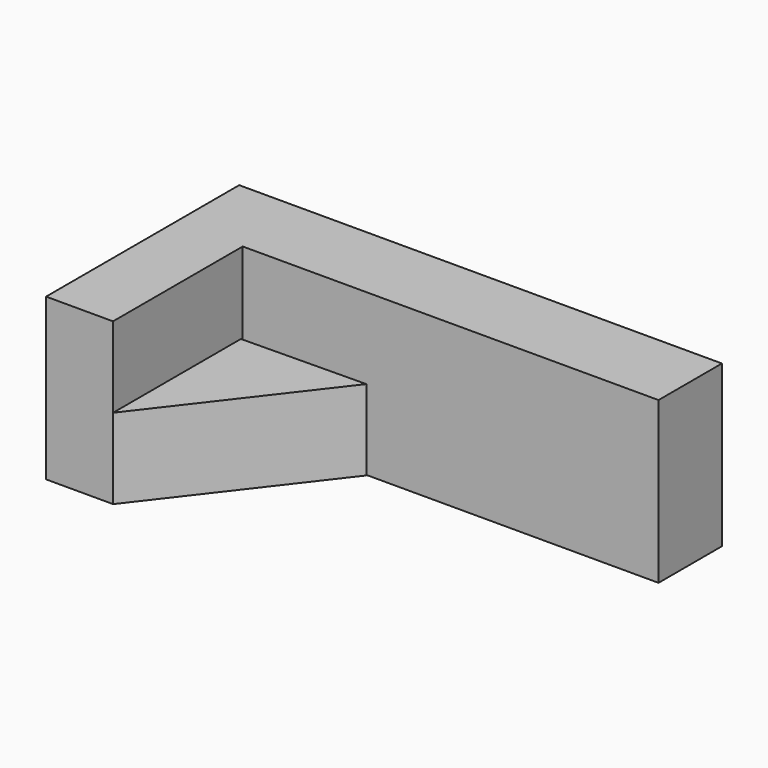
from build123d import *

# Parameters (mm, degrees)
F0_W     = 152.4
F0_H     = 50.8
F1_DEPTH = 76.2
F2_W     = 131.2693012774
F2_H     = 51.1809997261
F3_DEPTH = 50.8
F6_DEPTH = 50.8
F7_DEPTH = 25.4


with BuildPart() as f1:
    # F0 (on Front) → F1 (new body)
    with BuildSketch(Plane.XZ):
        with Locations((-1.3673976064, -20.1954185038)):
            Rectangle(F0_W, F0_H)
    extrude(amount=-F1_DEPTH)

    # F2 (on face) → F3 (cut)
    with BuildSketch(Plane.XY.offset(5.2045814962)):
        with Locations((9.1979517549, 25.590499863)):
            Rectangle(F2_W, F2_H)
    extrude(amount=-F3_DEPTH, mode=Mode.SUBTRACT)


with BuildPart() as f6:
    # F5 (on face) → F6 (new body)
    with BuildSketch(Plane.XY.offset(5.2045814962)):
        Polygon((-56.4218983054, 0), (-17.2239702284, 50.9468898916), (-56.4218983054, 50.4475539979), align=None)
    extrude(amount=-F6_DEPTH)

    # F7 (cut): a face of the model
    f7_faces = [f6.faces().sort_by_distance(p)[0] for p in [
        (-43.3559222797, 33.7981479632, 5.2045814962),
    ]]
    extrude(f7_faces, amount=-F7_DEPTH, mode=Mode.SUBTRACT)


solid = Compound([f1.part, f6.part])
